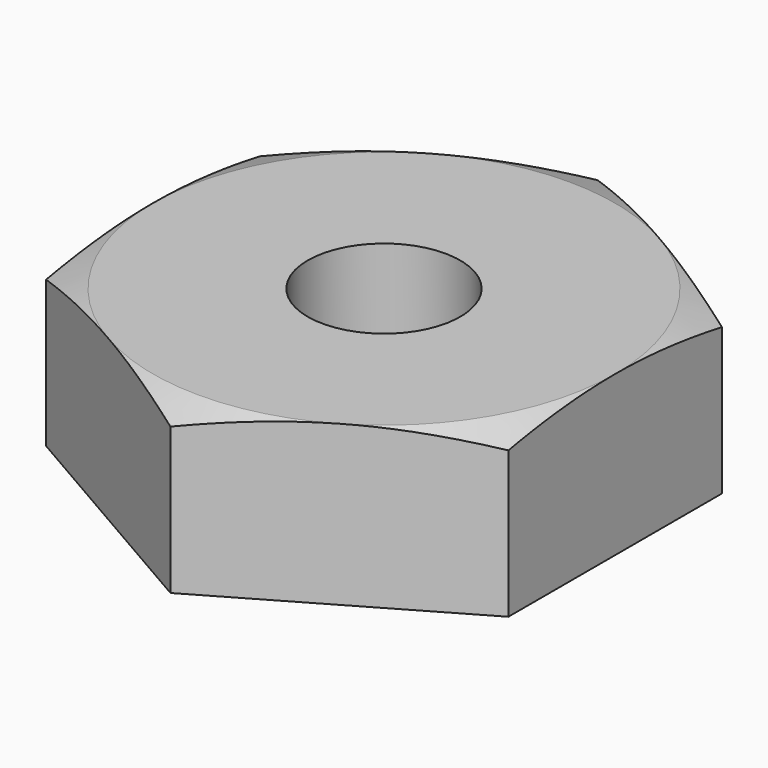
from build123d import *

# Parameters (mm, degrees)
F1_DEPTH = 3.45
F5_D     = 3.3


with BuildPart() as f1:
    # F0 (on Top) → F1 (new body)
    with BuildSketch(Plane.XY):
        Polygon((5, -2.8867513459), (5, 2.8867513459), (0, 5.7735026919), (-5, 2.8867513459), (-5, -2.8867513459), (0, -5.7735026919), align=None)
    extrude(amount=F1_DEPTH)

    # F2 (on Front) → F3 (revolve, cut)
    with BuildSketch(Plane.XZ):
        Polygon((6.9201928239, 3.45), (5, 3.45), (6.9201928239, 2.751106968), align=None)
    revolve(axis=Axis((0, 0, 1.725), (0, 0, 1)), mode=Mode.SUBTRACT)

    # F5 (through all)
    with Locations(Plane.XY.offset(3.45)):
        with Locations((0, 0)):
            Hole(F5_D / 2)


solid = f1.part
